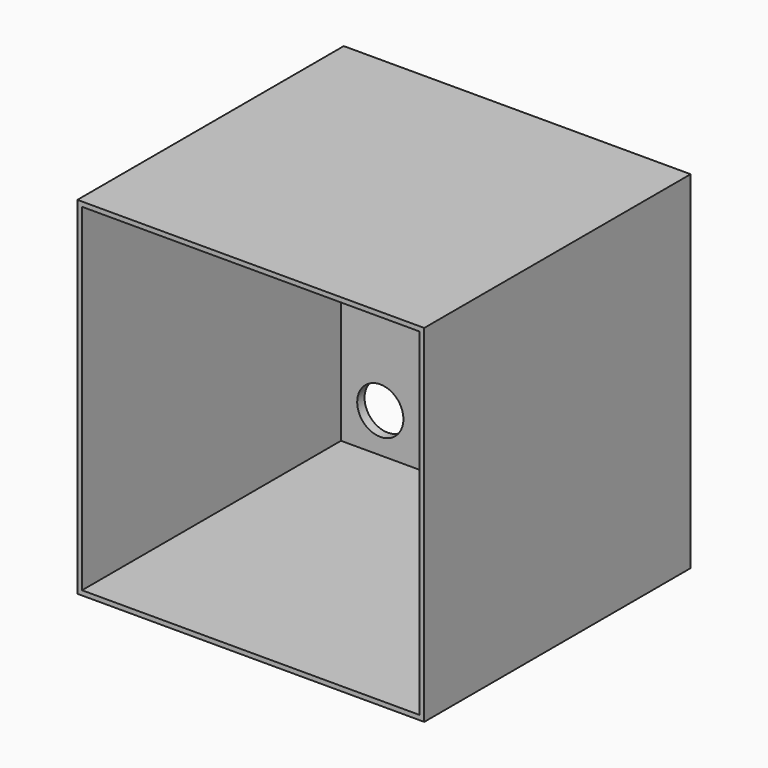
from build123d import *

# Parameters (mm, degrees)
F0_W     = 37.5
F0_H     = 37.5
F0_W_2   = 36.5
F0_H_2   = 36.5
F1_DEPTH = 36
F0_R     = 2.5
F2_DEPTH = 1


with BuildPart() as f1:
    # F0 (on Front) → F1 (new body)
    with BuildSketch(Plane.XZ):
        Rectangle(F0_W, F0_H)
        Rectangle(F0_W_2, F0_H_2, mode=Mode.SUBTRACT)
    extrude(amount=F1_DEPTH)

    # F0 (on Front) → F2 (join)
    with BuildSketch(Plane.XZ):
        Rectangle(F0_W_2, F0_H_2)
        Polygon((18, 18), (18, -18), (-18, -18), (-18, -14), (-18, 18), align=None, mode=Mode.SUBTRACT)
        Polygon((-18, -18), (18, -18), (18, 18), (-18, 18), (-18, -14), align=None)
        with BuildLine():
            ThreePointArc((-11.5, -14), (-14, -16.5), (-16.5, -14))
            ThreePointArc((-16.5, -14), (-14, -11.5), (-11.5, -14))
        make_face(mode=Mode.SUBTRACT)
        with Locations((14, -14)):
            Circle(F0_R, mode=Mode.SUBTRACT)
        with Locations((-14, 14)):
            Circle(F0_R, mode=Mode.SUBTRACT)
        with Locations((14, 14)):
            Circle(F0_R, mode=Mode.SUBTRACT)
    extrude(amount=F2_DEPTH)


solid = f1.part
